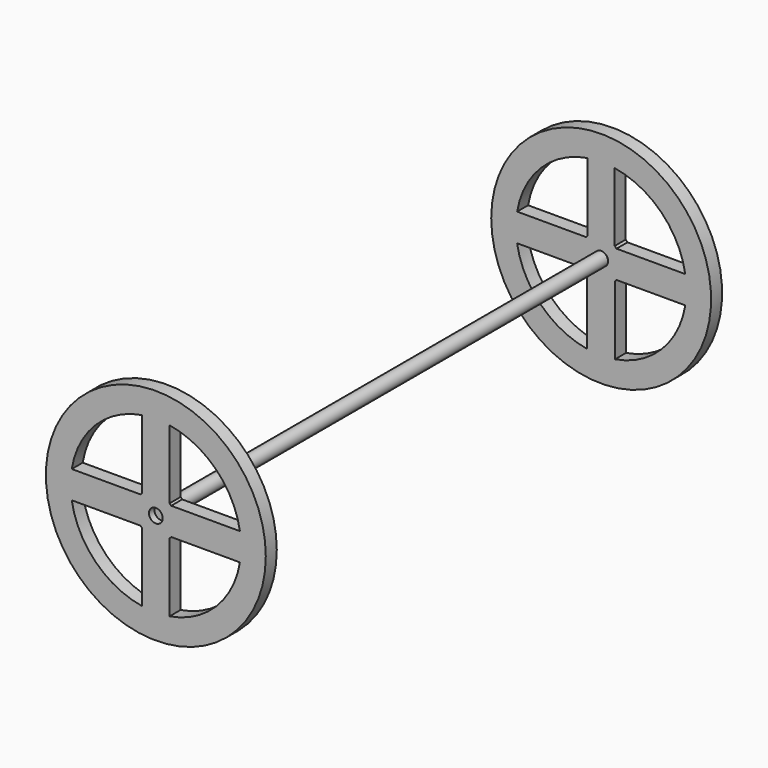
from build123d import *

# Parameters (mm, degrees)
F0_R     = 40
F1_DEPTH = 2.5
F2_R     = 2.5
F3_DEPTH = 200
F4_R     = 40
F4_R_2   = 2.5119602208
F5_DEPTH = 5


with BuildPart() as f1:
    # F0 (on Front) → F1 (new body, symmetric)
    with BuildSketch(Plane.XZ):
        Circle(F0_R)
        with BuildLine():
            Line((-30.5941170816, -5), (-5.5901699437, -5))
            ThreePointArc((-5.5901699437, -5), (-5.3033008589, -5.3033008589), (-5, -5.5901699437))
            Line((-5, -5.5901699437), (-5, -30.5941170816))
            ThreePointArc((-5, -30.5941170816), (-21.9203102168, -21.9203102168), (-30.5941170816, -5))
        make_face(mode=Mode.SUBTRACT)
        with BuildLine():
            ThreePointArc((30.5941170816, -5), (21.9203101767, -21.9203102568), (4.9999998882, -30.5941170998))
            Line((4.9999998882, -30.5941170998), (4.9999998882, -5.5901700437))
            ThreePointArc((4.9999998882, -5.5901700437), (5.3033008059, -5.3033009119), (5.5901699437, -5))
            Line((5.5901699437, -5), (30.5941170816, -5))
        make_face(mode=Mode.SUBTRACT)
        with BuildLine():
            ThreePointArc((-30.5941170998, 4.9999998882), (-21.9203102568, 21.9203101767), (-5, 30.5941170816))
            Line((-5, 30.5941170816), (-5, 5.5901699437))
            ThreePointArc((-5, 5.5901699437), (-5.3033009119, 5.3033008059), (-5.5901700437, 4.9999998882))
            Line((-5.5901700437, 4.9999998882), (-30.5941170998, 4.9999998882))
        make_face(mode=Mode.SUBTRACT)
        with BuildLine():
            ThreePointArc((0, 2.5), (1.767766953, 1.767766953), (2.5, 0))
            ThreePointArc((2.5, 0), (-1.767766953, -1.767766953), (0, 2.5))
        make_face(mode=Mode.SUBTRACT)
        with BuildLine():
            Line((4.9999998882, 5.5901700437), (4.9999998882, 30.5941170998))
            ThreePointArc((4.9999998882, 30.5941170998), (21.9203102168, 21.9203102168), (30.5941170998, 4.9999998882))
            Line((30.5941170998, 4.9999998882), (5.5901700437, 4.9999998882))
            ThreePointArc((5.5901700437, 4.9999998882), (5.3033008589, 5.3033008589), (4.9999998882, 5.5901700437))
        make_face(mode=Mode.SUBTRACT)
    extrude(amount=F1_DEPTH, both=True)

    # F2 (on Front) → F3 (join)
    with BuildSketch(Plane.XZ):
        Circle(F2_R)
    extrude(amount=-F3_DEPTH)


with BuildPart() as f5:
    # F4 (on face) → F5 (new body)
    with BuildSketch(Plane(origin=(0, 200, 0), x_dir=(-1, 0, 0), z_dir=(0, 1, 0))):
        Circle(F4_R)
        with BuildLine():
            ThreePointArc((-5.0273663049, -30.589632035), (-21.9264035722, -21.9142151671), (-30.5924226853, -5.0103566985))
            Line((-30.5924226853, -5.0103566985), (-5.5808893335, -5.0103566985))
            ThreePointArc((-5.5808893335, -5.0103566985), (-5.3113875625, -5.2952018055), (-5.0273663049, -5.565571672))
            Line((-5.0273663049, -5.565571672), (-5.0273663049, -30.589632035))
        make_face(mode=Mode.SUBTRACT)
        with BuildLine():
            Line((5.17042936, -30.5657759632), (5.17042936, -5.4329237279))
            ThreePointArc((5.17042936, -5.4329237279), (5.3798098606, -5.2256718098), (5.5808893335, -5.0103566985))
            Line((5.5808893335, -5.0103566985), (30.5924226853, -5.0103566985))
            ThreePointArc((30.5924226853, -5.0103566985), (21.9776081513, -21.862862117), (5.17042936, -30.5657759632))
        make_face(mode=Mode.SUBTRACT)
        with BuildLine():
            ThreePointArc((-4.9155800954, 5.6645452002), (-5.2584178483, 5.3478071892), (-5.5808893335, 5.0103566985))
            Line((-5.5808893335, 5.0103566985), (-30.5924226853, 5.0103566985))
            ThreePointArc((-30.5924226853, 5.0103566985), (-21.8863374824, 21.9542303806), (-4.9155800954, 30.6077943068))
            Line((-4.9155800954, 30.6077943068), (-4.9155800954, 5.6645452002))
        make_face(mode=Mode.SUBTRACT)
        Circle(F4_R_2, mode=Mode.SUBTRACT)
        with BuildLine():
            ThreePointArc((5.0041761406, 30.5934342818), (21.8777248123, 21.9628130492), (30.5737790837, 5.1228929856))
            Line((30.5737790837, 5.1228929856), (5.4777702998, 5.1228929856))
            ThreePointArc((5.4777702998, 5.1228929856), (5.2460954406, 5.3598957666), (5.0041761406, 5.5864318804))
            Line((5.0041761406, 5.5864318804), (5.0041761406, 30.5934342818))
        make_face(mode=Mode.SUBTRACT)
    extrude(amount=F5_DEPTH)


solid = Compound([f1.part, f5.part])
